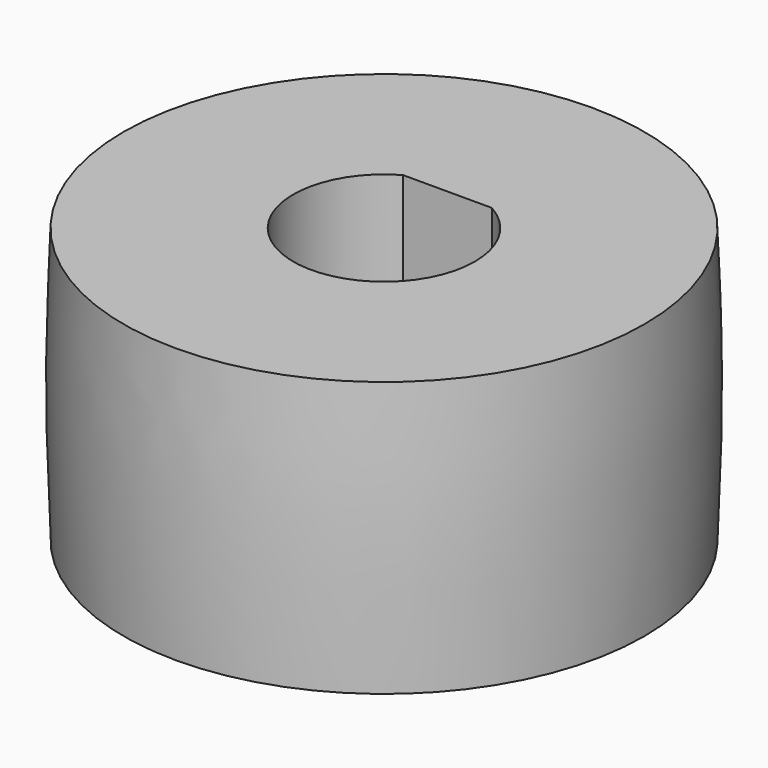
from build123d import *

# Parameters (mm, degrees)
F0_R     = 25
F1_DEPTH = 13


with BuildPart() as f1:
    # F0 (on Top) → F1 (new body, symmetric)
    with BuildSketch(Plane.XY):
        Circle(F0_R)
        with BuildLine():
            ThreePointArc((4.208325, 7.5), (7.421307, 4.345596), (8.6, 0))
            ThreePointArc((8.6, 0), (-4.345596, -7.421307), (-4.208325, 7.5))
            ThreePointArc((-4.208325, 7.5), (0, 8.6), (4.208325, 7.5))
        make_face(mode=Mode.SUBTRACT)
        with BuildLine():
            Line((-4.208325, 7.5), (4.208325, 7.5))
            ThreePointArc((4.208325, 7.5), (0, 8.6), (-4.208325, 7.5))
        make_face()
    extrude(amount=F1_DEPTH, both=True)

    # F2 (on Front) → F3 (revolve, cut)
    with BuildSketch(Plane.XZ):
        with BuildLine():
            add(Edge.make_bspline(
                [(-24.659583, -13), (-24.829792, -8.666667), (-25.170208, 0), (-24.829792, 8.666667), (-24.659583, 13)],
                knots=[0, 0, 0, 0, 13.004456, 26.008913, 26.008913, 26.008913, 26.008913], degree=3))
            Line((-24.659583, 13), (-43.254843, 13))
            Line((-43.254843, 13), (-43.254843, -13))
            Line((-43.254843, -13), (-24.659583, -13))
        make_face()
    revolve(axis=Axis((0, 0, -0.162524), (0, 0, -1)), mode=Mode.SUBTRACT)


solid = f1.part
